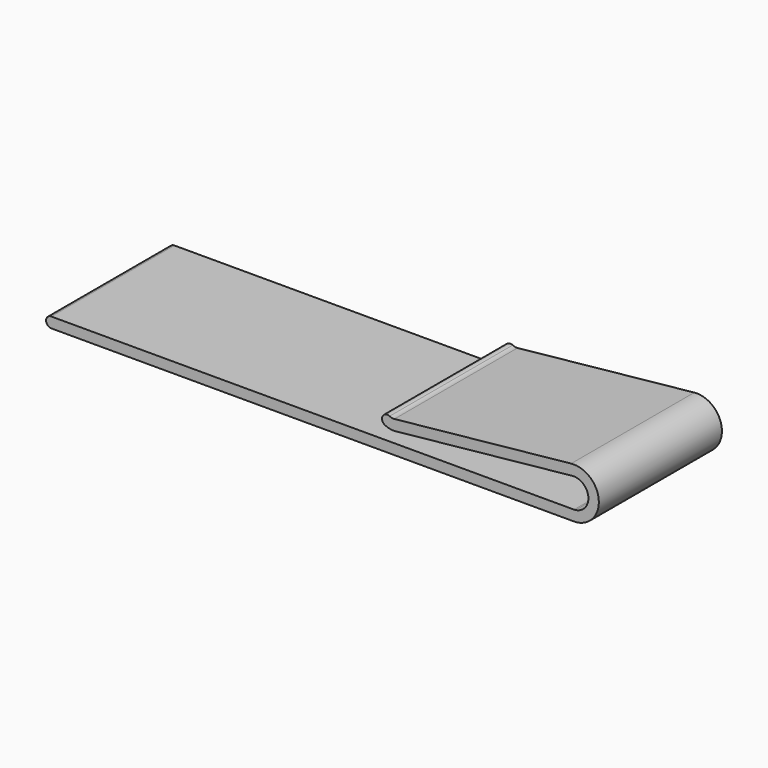
from build123d import *

# Parameters (mm, degrees)
F1_DEPTH = 25


with BuildPart() as f1:
    # F0 (on Front) → F1 (new body)
    with BuildSketch(Plane.XZ):
        with BuildLine():
            Line((45.785428, 23.387082), (-39.147809, 23.387082))
            ThreePointArc((-39.147809, 23.387082), (-39.997809, 22.537082), (-39.147809, 21.687082))
            Line((-39.147809, 21.687082), (45.785428, 21.687082))
            ThreePointArc((45.785428, 21.687082), (46.002018, 21.693427), (46.217865, 21.71244))
            ThreePointArc((46.217865, 21.71244), (49.794182, 26.209345), (45.323166, 29.817975))
            Line((45.323166, 29.817975), (16.606059, 26.857448))
            ThreePointArc((16.606059, 26.857448), (16.204595, 26.874858), (15.825154, 27.007151))
            ThreePointArc((15.825154, 27.007151), (14.683091, 26.644902), (15.037802, 25.500474))
            ThreePointArc((15.037802, 25.500474), (15.884524, 25.205261), (16.780393, 25.166411))
            Line((16.780393, 25.166411), (45.497499, 28.126938))
            ThreePointArc((45.497499, 28.126938), (48.104445, 26.022829), (46.019178, 23.400789))
            ThreePointArc((46.019178, 23.400789), (45.902504, 23.390512), (45.785428, 23.387082))
        make_face()
    extrude(amount=F1_DEPTH)


solid = f1.part
